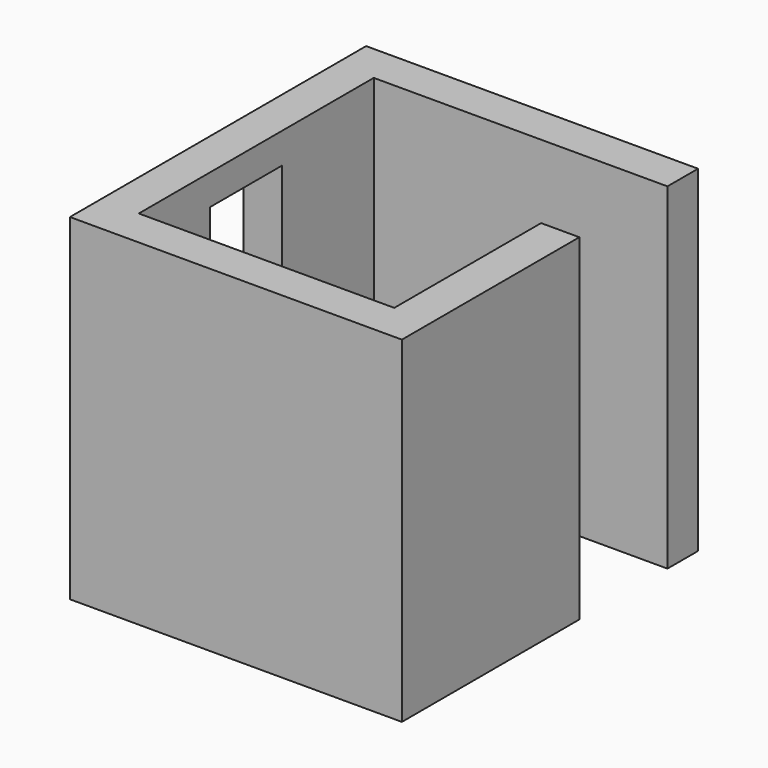
from build123d import *

# Parameters (mm, degrees)
F2_DEPTH  = 20
F3_W      = 217
F3_H      = 242
F3_W_2    = 167
F3_H_2    = 192
F4_DEPTH  = 240
F5_W      = 48
F5_H      = 72
F6_DEPTH  = 250
F7_W      = 79
F7_H      = 85
F8_DEPTH  = 25
F10_DEPTH = 25
F11_DEPTH = 25
F12_DEPTH = 20


with BuildPart() as f2:
    # F1 (on face) → F2 (new body)
    with BuildSketch(Plane.XY):
        Polygon((-497, -215), (-497, -231), (-497, -293), (-497, -407), (-330, -407), (-330, -287), (-330, -215), align=None)
    extrude(amount=F2_DEPTH)

    # F3 (on face) → F4 (join)
    with BuildSketch(Plane.XY):
        with Locations((-413.5, -311)):
            Rectangle(F3_W, F3_H)
        with Locations((-413.5, -311)):
            Rectangle(F3_W_2, F3_H_2, mode=Mode.SUBTRACT)
    extrude(amount=F4_DEPTH)

    # F5 (on face) → F6 (cut)
    with BuildSketch(Plane.XY.offset(20)):
        with Locations((-306, -251)):
            Rectangle(F5_W, F5_H)
    extrude(amount=F6_DEPTH, mode=Mode.SUBTRACT)

    # F7 (on face) → F8 (cut)
    with BuildSketch(Plane.YZ.offset(-497)):
        with Locations((-309.5, 177.5)):
            Rectangle(F7_W, F7_H)
    extrude(amount=-F8_DEPTH, mode=Mode.SUBTRACT)

    # F9 (on face) → F10 (join, through all)
    with BuildSketch(Plane.YZ.offset(-497)):
        Polygon((-270, 135), (-270, 220), (-290, 220), (-290, 155), (-349, 155), (-349, 135), align=None)
    extrude(amount=-F10_DEPTH)

    # F11 (cut): a face of the model
    f11_faces = [f2.faces().sort_by_distance(p)[0] for p in [
        (-408.3972360028, -307.8107725018, 20),
    ]]
    extrude(f11_faces, amount=-F11_DEPTH, mode=Mode.SUBTRACT)

    # F12 (cut): a face of the model
    f12_faces = [f2.faces().sort_by_distance(p)[0] for p in [
        (-308.2504307407, -202.5, 0),
    ]]
    extrude(f12_faces, amount=-F12_DEPTH, mode=Mode.SUBTRACT)


solid = f2.part
